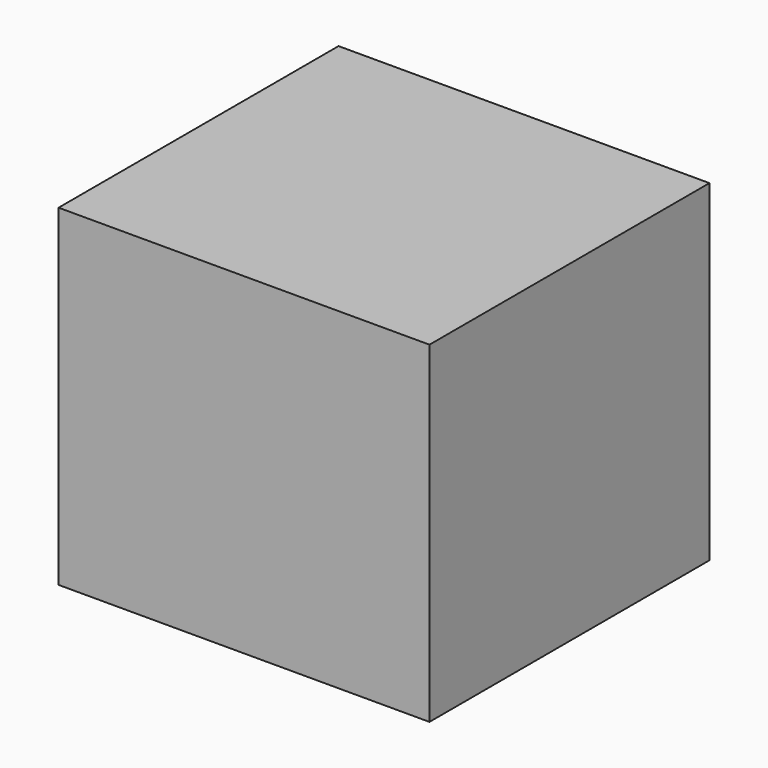
from build123d import *

# Parameters (mm, degrees)
F0_W      = 85.264876
F0_H      = 76.344237
F1_DEPTH  = 40.222399
F1_FACE_W = 80.444798
F1_FACE_H = 76.344236
F2_DEPTH  = 25.4


with BuildPart() as f1:
    # F0 (on Front) → F1 (new body, symmetric)
    with BuildSketch(Plane.XZ):
        with Locations((-36.201261, 38.172118)):
            Rectangle(F0_W, F0_H)
    extrude(amount=F1_DEPTH, both=True)

    # F1_face (on face) → F2 (join)
    with BuildSketch(Plane(origin=(-78.833699, 0, 38.172118), x_dir=(0, -1, 0), z_dir=(-1, 0, 0))):
        Rectangle(F1_FACE_W, F1_FACE_H)
    extrude(amount=-F2_DEPTH)


solid = f1.part
